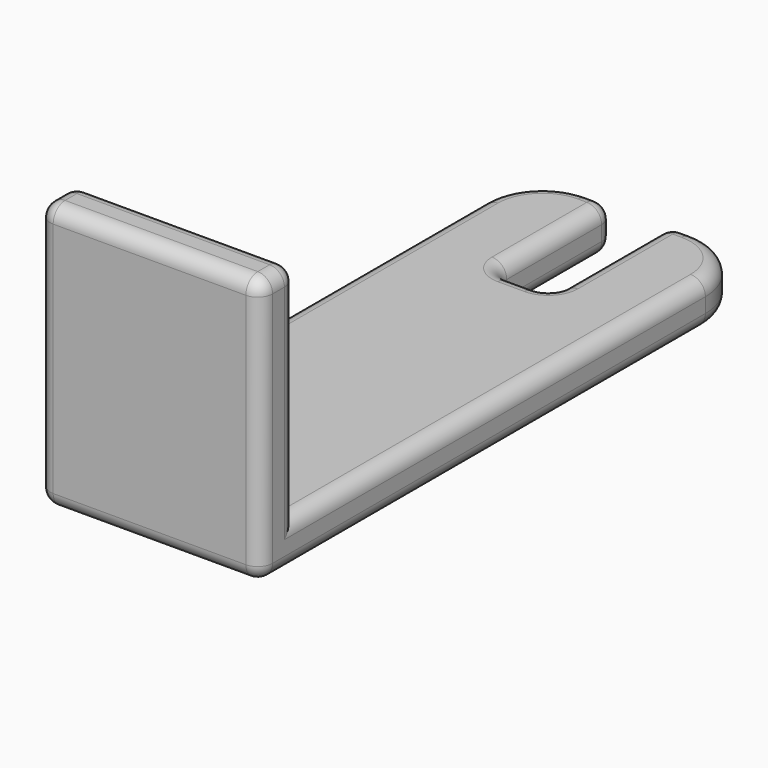
from build123d import *

# Parameters (mm, degrees)
SKETCH_W     = 15
SKETCH_H     = 41.5
PAD_DEPTH    = 3
SKETCH001_W  = 15
SKETCH001_H  = 3
PAD001_DEPTH = 15
SKETCH002_W  = 3.8
SKETCH002_H  = 10
POCKET_DEPTH = 3
FILLET_R     = 4
FILLET001_R  = 1
FILLET002_R  = 1


with BuildPart() as part:
    # Sketch → Pad (new body)
    with BuildSketch(Plane.XY):
        with Locations((7.5, 20.75)):
            Rectangle(SKETCH_W, SKETCH_H)
    extrude(amount=PAD_DEPTH)

    # Sketch001 (on Face6 of Pad) → Pad001 (join)
    with BuildSketch(Plane.XY.offset(3)):
        with Locations((7.5, 1.5)):
            Rectangle(SKETCH001_W, SKETCH001_H)
    extrude(amount=PAD001_DEPTH)

    # Sketch002 (on Face7 of Pad001) → Pocket (cut)
    with BuildSketch(Plane.XY.offset(3)):
        with Locations((7.5, 36.5)):
            Rectangle(SKETCH002_W, SKETCH002_H)
    extrude(amount=-POCKET_DEPTH, mode=Mode.SUBTRACT)

    # Fillet
    fillet_edges = [part.edges().sort_by_distance(p)[0] for p in [
        (0, 41.5, 1.5),
        (15, 41.5, 1.5),
    ]]
    fillet(fillet_edges, radius=FILLET_R)

    # Fillet001
    fillet001_edges = [part.edges().sort_by_distance(p)[0] for p in [
        (13.828427, 40.328427, 3),
        (13.828427, 40.328427, 0),
        (4.8, 41.5, 3),
        (4.8, 41.5, 0),
        (5.6, 41.5, 1.5),
        (5.6, 36.5, 0),
        (5.6, 36.5, 3),
        (9.4, 36.5, 3),
        (7.5, 31.5, 3),
        (9.4, 41.5, 1.5),
        (9.4, 36.5, 0),
        (7.5, 31.5, 0),
        (9.4, 31.5, 1.5),
        (5.6, 31.5, 1.5),
    ]]
    fillet(fillet001_edges, radius=FILLET001_R)

    # Fillet002
    fillet002_edges = [part.edges().sort_by_distance(p)[0] for p in [
        (7.5, 3, 18),
        (0, 1.5, 18),
        (7.5, 0, 18),
        (15, 1.5, 18),
        (0, 3, 10.5),
        (0, 0, 10.5),
        (15, 3, 10.5),
        (15, 0, 10.5),
    ]]
    fillet(fillet002_edges, radius=FILLET002_R)


solid = part.part
